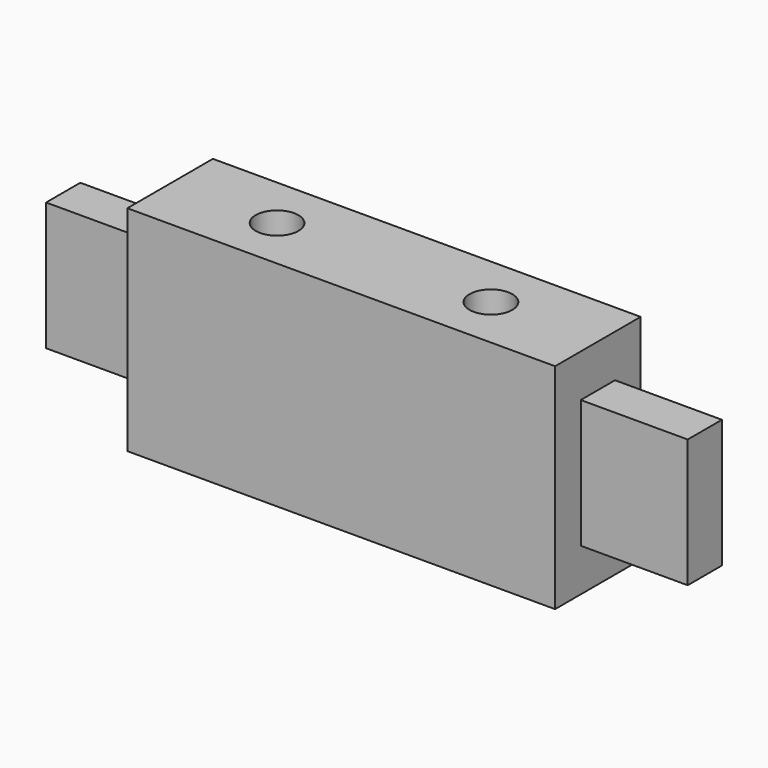
from build123d import *

# Parameters (mm, degrees)
F0_W     = 25
F0_H     = 50
F1_DEPTH = 50
F2_W     = 10
F2_H     = 30
F3_DEPTH = 25
F5_R     = 5
F6_DEPTH = 25


with BuildPart() as f1:
    # F0 (on Right) → F1 (new body, symmetric)
    with BuildSketch(Plane.YZ):
        Rectangle(F0_W, F0_H)
    extrude(amount=F1_DEPTH, both=True)

    # F2 (on face) → F3 (join)
    with BuildSketch(Plane.YZ.offset(50)):
        Rectangle(F2_W, F2_H)
    extrude(amount=F3_DEPTH)

    # F4: F1 across plane


with BuildPart() as f1_1:
    add(f1.part)
    add(f1.part.mirror(Plane.YZ))

    # F5 (on face) → F6 (cut)
    with BuildSketch(Plane.XY.offset(25)):
        with Locations((-25, 0)):
            Circle(F5_R)
        with Locations((25, 0)):
            Circle(F5_R)
    extrude(amount=-F6_DEPTH, mode=Mode.SUBTRACT)


solid = f1_1.part
